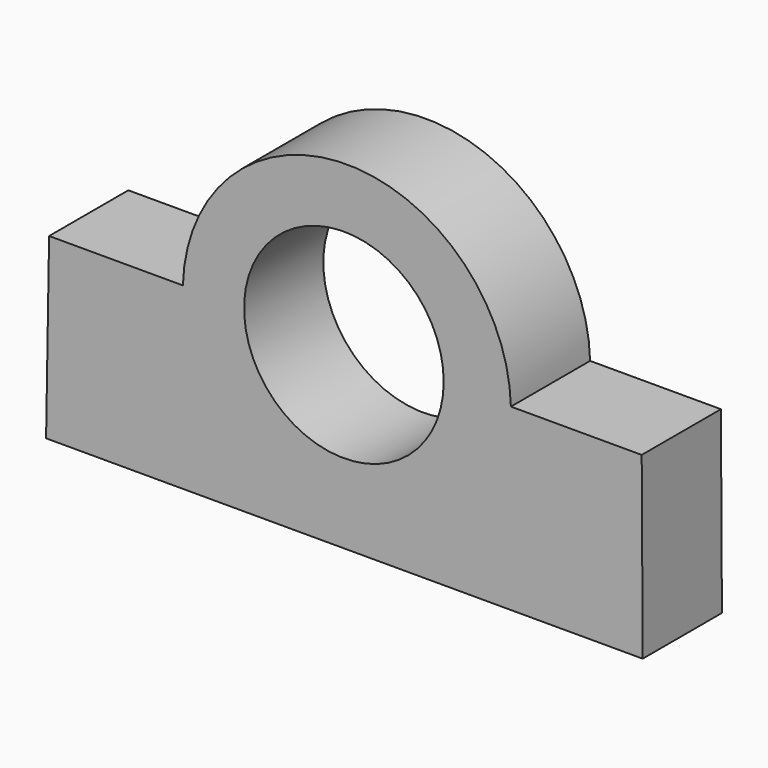
from build123d import *

# Parameters (mm, degrees)
F0_R     = 25.603668
F1_DEPTH = 25.4


with BuildPart() as f1:
    # F0 (on Front) → F1 (new body)
    with BuildSketch(Plane.XZ):
        with BuildLine():
            Line((-75.622357, 0), (-76.396644, -45.941226))
            Line((-76.396644, -45.941226), (76.65474, -45.941226))
            Line((76.65474, -45.941226), (76.396652, 0))
            Line((76.396652, 0), (42.844061, 0))
            ThreePointArc((42.844061, 0), (0.774289, 41.016271), (-41.295484, 0))
            Line((-41.295484, 0), (-75.622357, 0))
        make_face()
        Circle(F0_R, mode=Mode.SUBTRACT)
    extrude(amount=F1_DEPTH)


solid = f1.part
